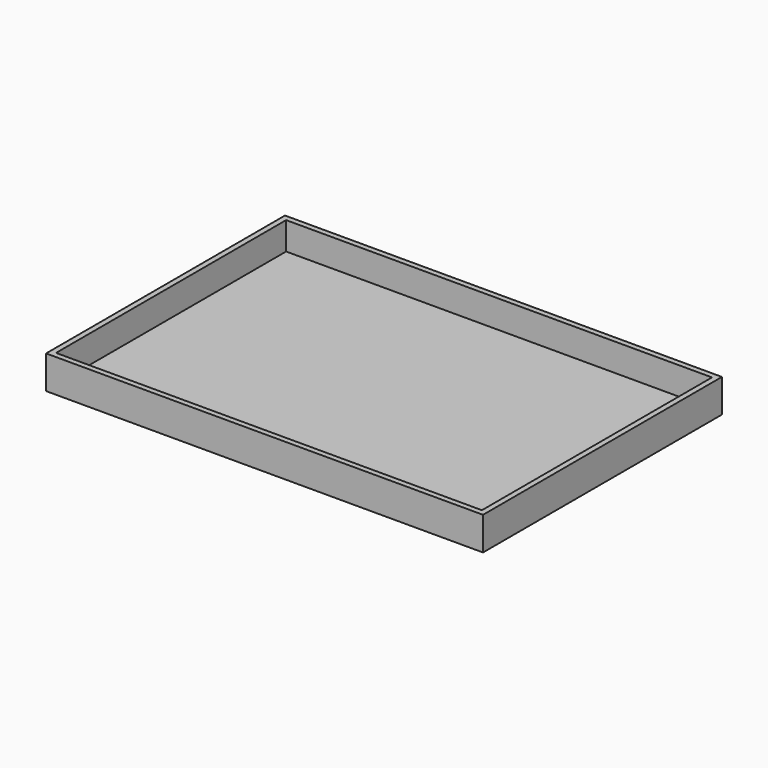
from build123d import *

# Parameters (mm, degrees)
F0_W     = 154
F0_H     = 104
F1_DEPTH = 10
F2_T     = 2


with BuildPart() as f1:
    # F0 (on Top) → F1 (new body)
    with BuildSketch(Plane.XY):
        Rectangle(F0_W, F0_H)
    extrude(amount=F1_DEPTH)

    # F2
    f2_openings = [f1.faces().sort_by_distance(p)[0] for p in [
        (0, 0, 10),
    ]]
    offset(amount=F2_T, openings=f2_openings, kind=Kind.INTERSECTION)


solid = f1.part
